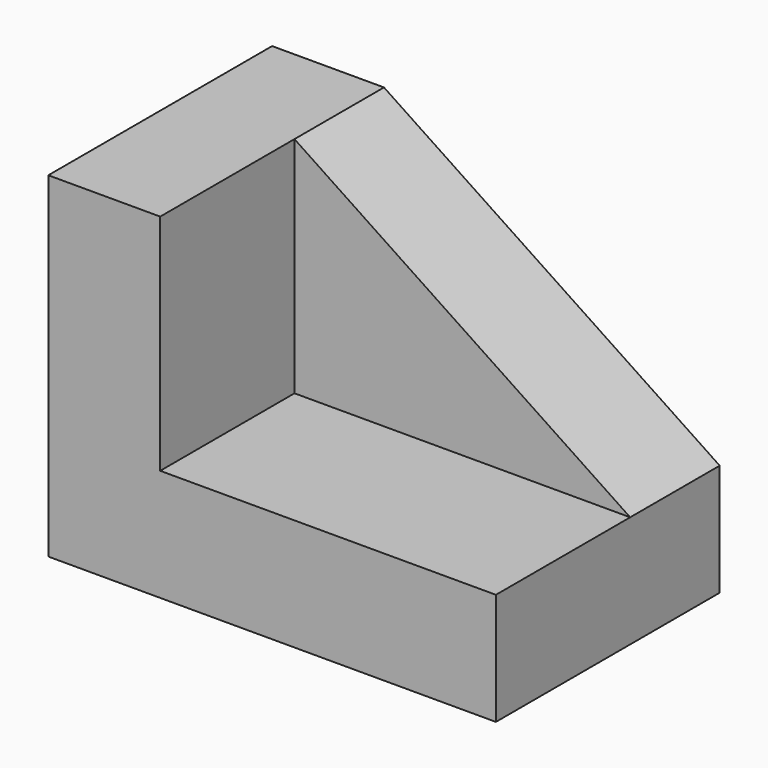
from build123d import *

# Parameters (mm, degrees)
F1_DEPTH = 63.5
F3_DEPTH = 38.1


with BuildPart() as f1:
    # F0 (on Front) → F1 (new body)
    with BuildSketch(Plane.XZ):
        Polygon((57.172726, -32.42728), (-19.027274, 18.37272), (-44.427274, 18.37272), (-44.427274, -57.82728), (57.172726, -57.82728), align=None)
    extrude(amount=F1_DEPTH)

    # F2 (on face) → F3 (cut)
    with BuildSketch(Plane.XZ.offset(63.5)):
        Polygon((-19.027274, 18.37272), (-19.027274, -32.42728), (57.172726, -32.42728), align=None)
    extrude(amount=-F3_DEPTH, mode=Mode.SUBTRACT)


solid = f1.part
